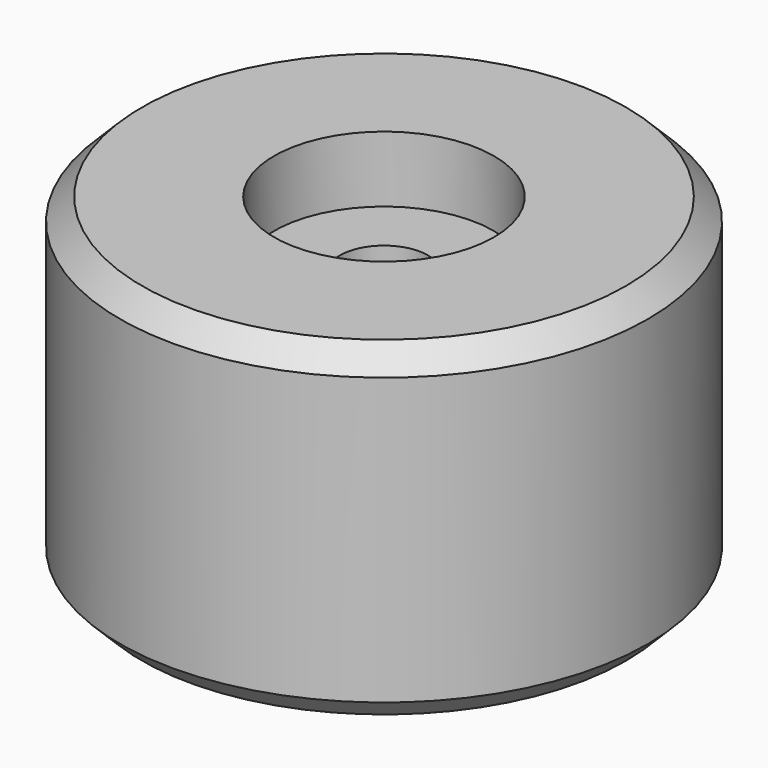
from build123d import *

# Parameters (mm, degrees)
F0_R     = 12
F0_R_2   = 2
F1_DEPTH = 15
F2_SIZE  = 1
F3_R     = 5
F4_DEPTH = 3
F5_R     = 4
F6_DEPTH = 3


with BuildPart() as f1:
    # F0 (on Top) → F1 (new body)
    with BuildSketch(Plane.XY):
        Circle(F0_R)
        Circle(F0_R_2, mode=Mode.SUBTRACT)
    extrude(amount=-F1_DEPTH)

    # F2
    f2_edges = [f1.edges().sort_by_distance(p)[0] for p in [
        (-12, 0, -15),
        (-12, 0, 0),
    ]]
    chamfer(f2_edges, length=F2_SIZE)

    # F3 (on face) → F4 (cut)
    with BuildSketch(Plane.XY):
        Circle(F3_R)
    extrude(amount=-F4_DEPTH, mode=Mode.SUBTRACT)

    # F5 (on face) → F6 (cut)
    with BuildSketch(Plane(origin=(0, 0, -15), x_dir=(1, 0, 0), z_dir=(0, 0, -1))):
        Circle(F5_R)
    extrude(amount=-F6_DEPTH, mode=Mode.SUBTRACT)


solid = f1.part
